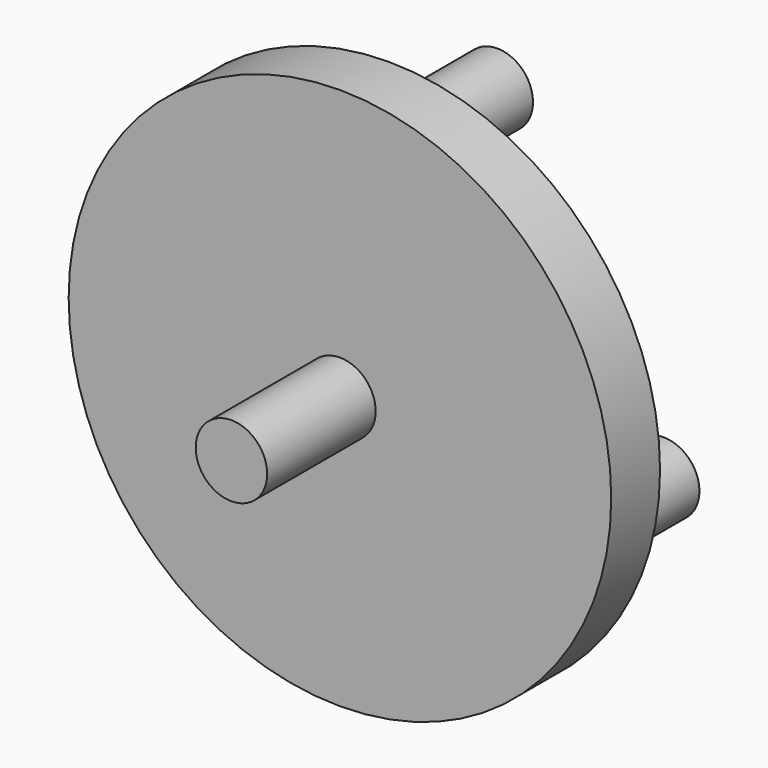
from build123d import *

# Parameters (mm, degrees)
F0_R     = 12
F1_DEPTH = 1.35
F2_R     = 1.58
F3_DEPTH = 6
F4_R     = 1.58
F5_DEPTH = 6


with BuildPart() as f1:
    # F0 (on Front) → F1 (new body, symmetric)
    with BuildSketch(Plane.XZ):
        Circle(F0_R)
    extrude(amount=F1_DEPTH, both=True)

    # F2 (on face) → F3 (join)
    with BuildSketch(Plane.XZ.offset(1.35)):
        Circle(F2_R)
    extrude(amount=F3_DEPTH)

    # F4 (on face) → F5 (join)
    with BuildSketch(Plane(origin=(0, 1.35, 0), x_dir=(-1, 0, 0), z_dir=(0, 1, 0))):
        with Locations((0, 8.5)):
            Circle(F4_R)
        with Locations((-7.3612159322, -4.25)):
            Circle(F4_R)
        with Locations((7.3612159322, -4.25)):
            Circle(F4_R)
    extrude(amount=F5_DEPTH)


solid = f1.part
